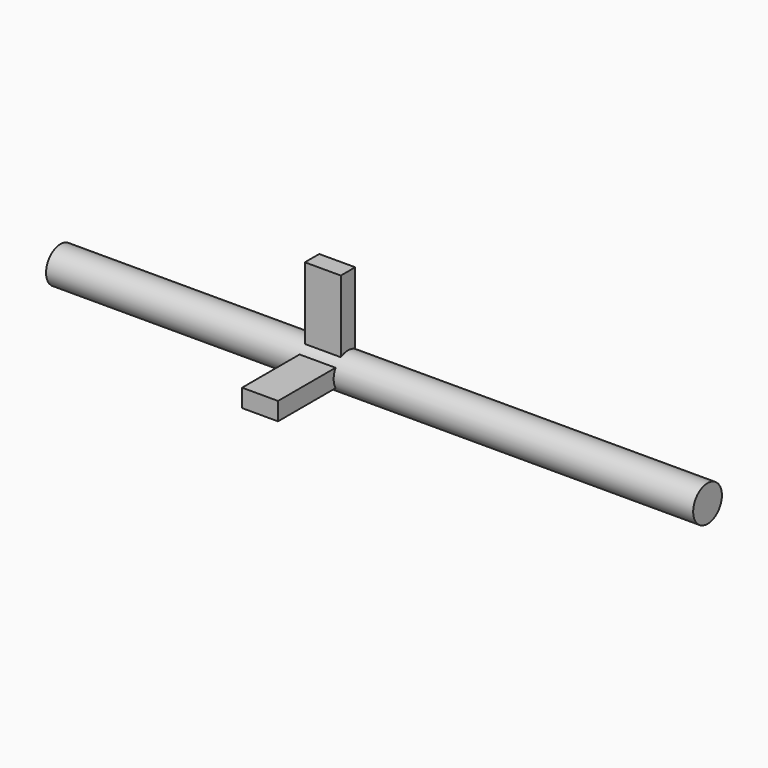
from build123d import *

# Parameters (mm, degrees)
F0_R     = 3.175
F1_DEPTH = 114.3
F5_DEPTH = 6.35


with BuildPart() as f1:
    # F0 (on Right) → F1 (new body)
    with BuildSketch(Plane.YZ):
        Circle(F0_R)
    extrude(amount=F1_DEPTH)

    # F4 (on offset) → F5 (join)
    with BuildSketch(Plane(origin=(44.45, 0, 0), x_dir=(0, -1, 0), z_dir=(-1, 0, 0))):
        with BuildLine():
            Line((15.4581812469, 1.5823668619), (2.7581812469, 1.5823668619))
            Line((2.7581812469, 1.5823668619), (2.7581812469, 1.571402878))
            ThreePointArc((2.7581812469, 1.571402878), (3.0685880653, 0.8127964573), (3.1744087316, 0))
            ThreePointArc((3.1744087316, 0), (3.0685880653, -0.8127964573), (2.7581812469, -1.571402878))
            Line((2.7581812469, -1.571402878), (2.7581812469, -1.5926331381))
            Line((2.7581812469, -1.5926331381), (15.4581812469, -1.5926331381))
            Line((15.4581812469, -1.5926331381), (15.4581812469, 1.5823668619))
        make_face()
        with BuildLine():
            ThreePointArc((-1.5789494102, 2.7538681079), (0.0093713682, 3.1743948987), (1.5951815458, 2.7444975189))
            Line((1.5951815458, 2.7444975189), (1.5960505898, 2.7444975189))
            Line((1.5960505898, 2.7444975189), (1.5960505898, 15.4444975189))
            Line((1.5960505898, 15.4444975189), (-1.5789494102, 15.4444975189))
            Line((-1.5789494102, 15.4444975189), (-1.5789494102, 2.7538681079))
        make_face()
    extrude(amount=-F5_DEPTH)


solid = f1.part
